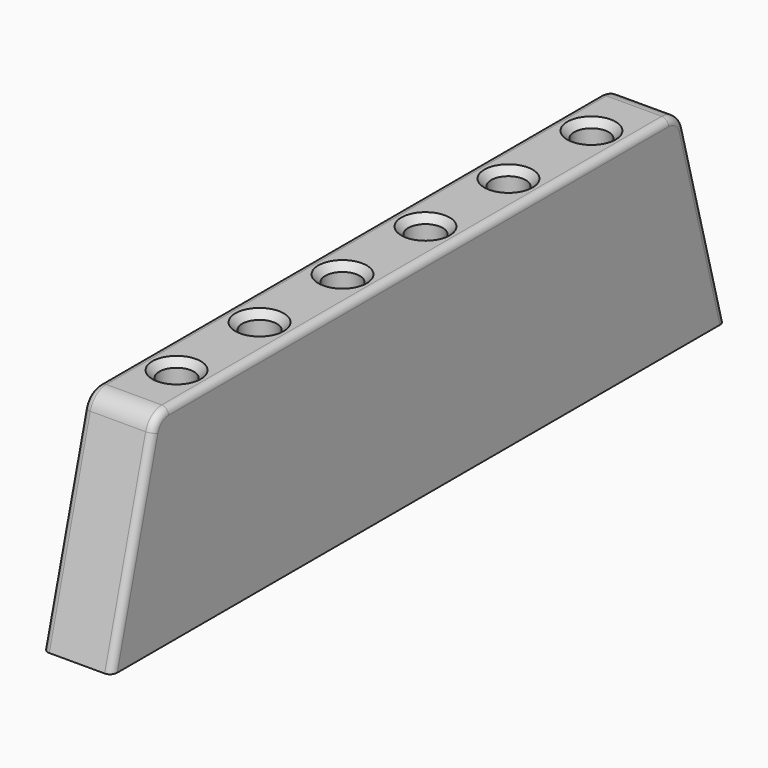
from build123d import *

# Parameters (mm, degrees)
PAD012_DEPTH           = 5
LINEARPATTERN002_COUNT = 6
LINEARPATTERN002_PITCH = 15
SKETCH031_R            = 1.25
POCKET011_DEPTH        = 12
CHAMFER004_SIZE        = 1
FILLET004_R            = 3
FILLET005_R            = 1


with BuildPart() as part:
    # Sketch029 → Pad012 (new body, symmetric)
    with BuildSketch(Plane.YZ):
        Polygon((-18, 0), (93, 0), (85, 30), (-10, 30), align=None)
    extrude(amount=PAD012_DEPTH, both=True)

    # Sketch030 → Groove (revolve, cut)
    with BuildSketch(Plane.YZ):
        Polygon((0, 0), (1.8, 0), (1.8, 19.3), (2.5, 20), (2.5, 30), (0, 30), align=None)
    groove = revolve(axis=Axis((0, 0, 0), (0, 0, 1)), mode=Mode.SUBTRACT)

    # LinearPattern002: Groove ×6
    with Locations(*[(0, i * LINEARPATTERN002_PITCH, 0) for i in range(1, LINEARPATTERN002_COUNT)]):
        add(groove, mode=Mode.SUBTRACT)

    # Sketch031 → Pocket011 (cut)
    with BuildSketch(Plane.XY):
        with Locations((0, 85)):
            Circle(SKETCH031_R)
        with Locations((0, -10)):
            Circle(SKETCH031_R)
    extrude(amount=POCKET011_DEPTH, mode=Mode.SUBTRACT)

    # Chamfer004
    chamfer004_edges = [part.edges().sort_by_distance(p)[0] for p in [
        (0, -2.5, 30),
        (0, 12.5, 30),
        (0, 27.5, 30),
        (0, 42.5, 30),
        (0, 57.5, 30),
        (0, 72.5, 30),
    ]]
    chamfer(chamfer004_edges, length=CHAMFER004_SIZE)

    # Fillet004
    fillet004_edges = [part.edges().sort_by_distance(p)[0] for p in [
        (0, -10, 30),
        (0, 85, 30),
    ]]
    fillet(fillet004_edges, radius=FILLET004_R)

    # Fillet005
    fillet005_edges = [part.edges().sort_by_distance(p)[0] for p in [
        (5, -9.522873, 29.378967),
        (-5, 37.5, 30),
    ]]
    fillet(fillet005_edges, radius=FILLET005_R)


solid = part.part
